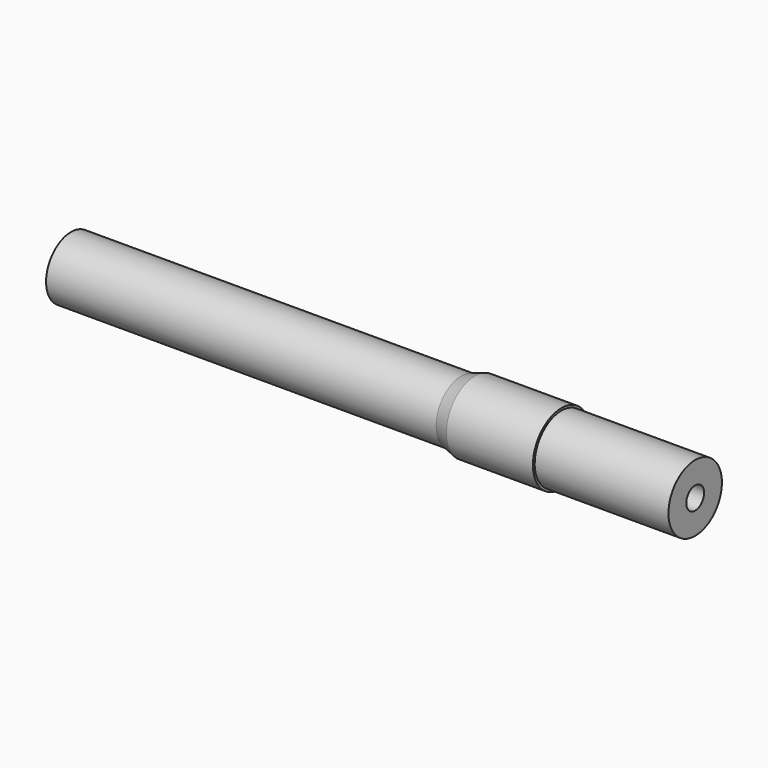
from build123d import *

# Parameters (mm, degrees)
F3_R     = 2.5
F4_DEPTH = 25


with BuildPart() as f1:
    # F0 (on Front) → F1 (revolve)
    with BuildSketch(Plane.XZ):
        Polygon((-151.782072, 0), (-11.782072, 0), (-11.782072, 7.5), (-41.782072, 7.5), (-41.782072, 8), (-61.195635, 8), (-64.282072, 7), (-91.782072, 7), (-98.282072, 7), (-151.782072, 7), (-151.782072, 5.5), align=None)
    revolve(axis=Axis((-81.782072, 0, 0), (-1, 0, 0)))

    # F3 (on face) → F4 (cut)
    with BuildSketch(Plane.YZ.offset(-11.782072)):
        Circle(F3_R)
    extrude(amount=-F4_DEPTH, mode=Mode.SUBTRACT)


solid = f1.part
